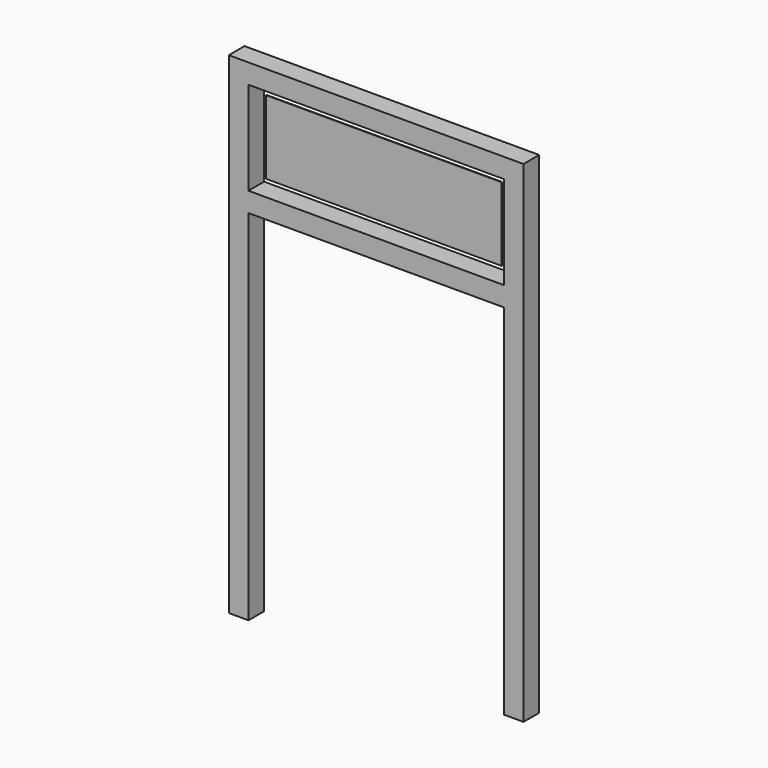
from build123d import *

# Parameters (mm, degrees)
F0_W     = 1320.8
F0_H     = 482.6
F1_DEPTH = 50.8
F2_W     = 1219.2
F2_H     = 381
F3_DEPTH = 1.5875


with BuildPart() as f1:
    # F0 (on Front) → F1 (new body, symmetric)
    with BuildSketch(Plane.XZ):
        Polygon((762, -914.4), (762, 1625.6), (-762, 1625.6), (-762, -914.4), (-660.4, -914.4), (-660.4, 939.8), (660.4, 939.8), (660.4, -914.4), align=None)
        with Locations((0, 1282.7)):
            Rectangle(F0_W, F0_H, mode=Mode.SUBTRACT)
    extrude(amount=F1_DEPTH, both=True)


with BuildPart() as f3:
    # F2 (on Front) → F3 (new body, symmetric)
    with BuildSketch(Plane.XZ):
        with Locations((0, 1282.7)):
            Rectangle(F2_W, F2_H)
    extrude(amount=F3_DEPTH, both=True)


solid = Compound([f1.part, f3.part])
